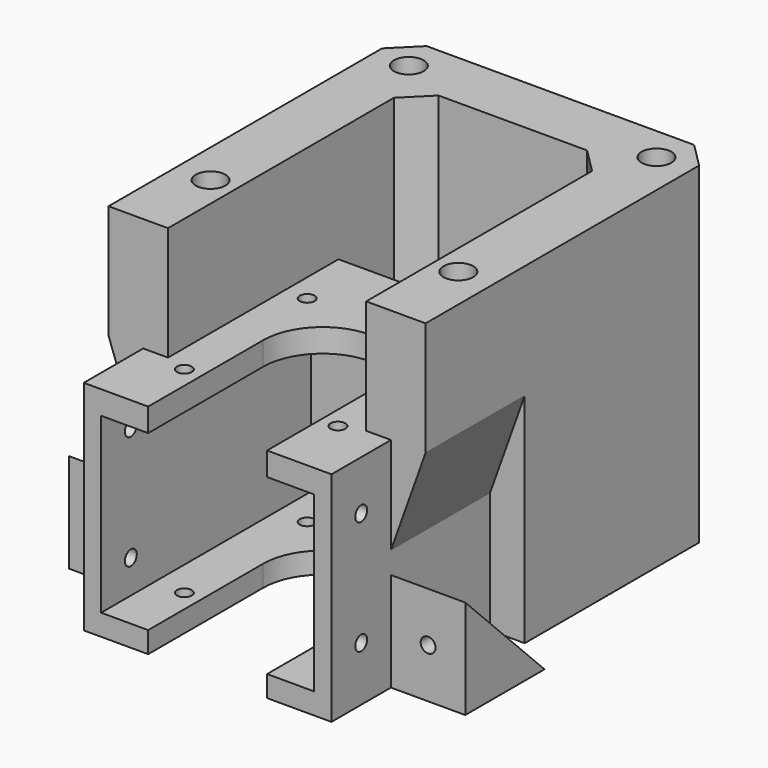
from build123d import *

# Parameters (mm, degrees)
PAD004_DEPTH       = 23
PAD005_DEPTH       = 44
SKETCH007_W        = 43
SKETCH007_H        = 35
POCKET001_DEPTH    = 53
PAD006_DEPTH       = 25
SKETCH009_R        = 1.5
POCKET002_DEPTH    = 44.001
SKETCH012_R        = 3
POCKET004_DEPTH    = 10
POLARPATTERN_COUNT = 4
CHAMFER_SIZE       = 5
POCKET_DEPTH       = 5
PAD_DEPTH          = 44
SKETCH014_R        = 1.5
POCKET005_DEPTH    = 57.001
PAD007_DEPTH       = 15
SKETCH016_R        = 1.5
POCKET006_DEPTH    = 20
SKETCH017_R        = 1.5
POCKET007_DEPTH    = 20
SKETCH018_W        = 9
SKETCH018_H        = 10
POCKET008_DEPTH    = 15
POCKET009_DEPTH    = 15
SKETCH020_R        = 1.5
POCKET010_DEPTH    = 5


with BuildPart() as part:
    # Sketch005 → Pad004 (new body)
    with BuildSketch(Plane.XY):
        Polygon((32, -42), (32, 32), (-32, 32), (-32, -42), (-20, -42), (-20, 20), (20, 20), (20, -42), align=None)
    extrude(amount=-PAD004_DEPTH)

    # Sketch006 (on Face10 of Pad004) → Pad005 (join)
    with BuildSketch(Plane(origin=(0, 0, -23), x_dir=(1, 0, 0), z_dir=(0, 0, -1))):
        with BuildLine():
            Line((-25, 57), (-25, -1))
            Line((-25, -1), (25, -1))
            Line((25, -1), (25, 57))
            Line((25, 57), (12, 57))
            Line((12, 28.000302), (12, 57))
            ThreePointArc((-12, 27.999702), (0.0003, 16), (12, 28.000302))
            Line((-12, 27.999702), (-12, 57))
            Line((-12, 57), (-25, 57))
        make_face()
    extrude(amount=PAD005_DEPTH)

    # Sketch007 (on Face16 of Pad005) → Pocket001 (cut)
    with BuildSketch(Plane.XZ.offset(57)):
        with Locations((0, -45.217157)):
            Rectangle(SKETCH007_W, SKETCH007_H)
    extrude(amount=-POCKET001_DEPTH, mode=Mode.SUBTRACT)

    # Sketch008 (on Face9 of Pocket001) → Pad006 (join)
    with BuildSketch(Plane.XZ.offset(42)):
        Polygon((-32, -23), (-25, -23), (-25, -42.561909), align=None)
        Polygon((32, -23), (25, -23), (25, -42.561909), align=None)
    extrude(amount=-PAD006_DEPTH)

    # Sketch009 (on Face7 of Pad006) → Pocket002 (cut, through all)
    with BuildSketch(Plane.XY.offset(-23)):
        with Locations((-15.5, -12.5)):
            Circle(SKETCH009_R)
        with Locations((-15.5, -43.5)):
            Circle(SKETCH009_R)
        with Locations((15.5, -43.5)):
            Circle(SKETCH009_R)
        with Locations((15.5, -12.5)):
            Circle(SKETCH009_R)
    extrude(amount=-POCKET002_DEPTH, mode=Mode.SUBTRACT)

    # Sketch012 (on Face4 of Pocket002) → Pocket004 (cut)
    with BuildSketch(Plane.XY):
        with Locations((-25, 25)):
            Circle(SKETCH012_R)
    pocket004 = extrude(amount=-POCKET004_DEPTH, mode=Mode.SUBTRACT)

    # PolarPattern: Pocket004 ×4 about axis
    polarpattern_axis = Axis((0, 0, 0), (0, 0, 1))
    for i in range(1, POLARPATTERN_COUNT):
        add(pocket004.rotate(polarpattern_axis, i * 360 / POLARPATTERN_COUNT), mode=Mode.SUBTRACT)

    # Chamfer
    chamfer_edges = [part.edges().sort_by_distance(p)[0] for p in [
        (-32, 32, -11.5),
        (32, 32, -11.5),
        (-25, 1, -45),
        (25, 1, -45),
        (20, 20, -11.5),
        (-20, 20, -11.5),
    ]]
    chamfer(chamfer_edges, length=CHAMFER_SIZE)

    # Sketch013 (on Face37 of Chamfer) → Pocket (cut)
    with BuildSketch(Plane(origin=(0, 1, 0), x_dir=(-1, 0, 0), z_dir=(0, 1, 0))):
        with BuildLine():
            Line((-12, -62.717157), (12, -62.717157))
            Line((12, -62.717157), (12, -49.356773))
            ThreePointArc((12, -49.356773), (0, -37.356773), (-12, -49.356773))
            Line((-12, -49.356773), (-12, -62.717157))
        make_face()
    extrude(amount=-POCKET_DEPTH, mode=Mode.SUBTRACT)

    # Sketch (on Face5 of Pocket) → Pad (join)
    with BuildSketch(Plane(origin=(0, 0, -23), x_dir=(1, 0, 0), z_dir=(0, 0, -1))):
        Polygon((-32, 17), (-25, 17), (-25, 7), (-20, 2), (-20, -15), (-15, -20), (15, -20), (20, -15), (20, 2), (25, 7), (25, 17), (32, 17), (32, -27), (27, -32), (-27, -32), (-32, -27), align=None)
    extrude(amount=PAD_DEPTH)

    # Sketch014 (on Face13 of Pad) → Pocket005 (cut, through all)
    with BuildSketch(Plane(origin=(-25, 0, 0), x_dir=(0, -1, 0), z_dir=(-1, 0, 0))):
        with Locations((49.5, -33)):
            Circle(SKETCH014_R)
        with Locations((49.5, -56)):
            Circle(SKETCH014_R)
    extrude(amount=-POCKET005_DEPTH, mode=Mode.SUBTRACT)

    # Sketch015 (on Face26 of Pocket005) → Pad007 (join)
    with BuildSketch(Plane(origin=(-25, 0, 0), x_dir=(0, -1, 0), z_dir=(-1, 0, 0))):
        Polygon((22, -67), (42, -67), (42, -47), align=None)
    pad007 = extrude(amount=PAD007_DEPTH)

    # Sketch016 (on Face53 of Pad007) → Pocket006 (cut)
    with BuildSketch(Plane.XZ.offset(42)):
        with Locations((-32.5, -57)):
            Circle(SKETCH016_R)
    pocket006 = extrude(amount=-POCKET006_DEPTH, mode=Mode.SUBTRACT)

    # Sketch017 (on Face20 of Pocket006) → Pocket007 (cut)
    with BuildSketch(Plane(origin=(0, 0, -67), x_dir=(1, 0, 0), z_dir=(0, 0, -1))):
        with Locations((-32.5, 32)):
            Circle(SKETCH017_R)
    pocket007 = extrude(amount=-POCKET007_DEPTH, mode=Mode.SUBTRACT)

    # Sketch018 (on Face20 of Pocket007) → Pocket008 (cut)
    with BuildSketch(Plane(origin=(0, 0, -62), x_dir=(1, 0, 0), z_dir=(0, 0, -1))):
        with Locations((-32.5, 32)):
            Rectangle(SKETCH018_W, SKETCH018_H)
    pocket008 = extrude(amount=-POCKET008_DEPTH, mode=Mode.SUBTRACT)

    # Mirrored: Pad007, Pocket006, Pocket007, Pocket008 across YZ
    add(pad007.mirror(Plane.YZ))
    add(pocket006.mirror(Plane.YZ), mode=Mode.SUBTRACT)
    add(pocket007.mirror(Plane.YZ), mode=Mode.SUBTRACT)
    add(pocket008.mirror(Plane.YZ), mode=Mode.SUBTRACT)

    # Sketch019 (on Face5 of Mirrored) → Pocket009 (cut)
    with BuildSketch(Plane(origin=(0, 32, 0), x_dir=(-1, 0, 0), z_dir=(0, 1, 0))):
        with BuildLine():
            Line((-8, -63), (8, -63))
            Line((8, -63), (8, -50.411114))
            ThreePointArc((8, -50.411114), (0, -42.484996), (-8, -50.411114))
            Line((-8, -50.411114), (-8, -63))
        make_face()
    extrude(amount=-POCKET009_DEPTH, mode=Mode.SUBTRACT)

    # Sketch020 (on Face23 of Pocket009) → Pocket010 (cut)
    with BuildSketch(Plane.XY.offset(-63)):
        with Locations((0, 27.5)):
            Circle(SKETCH020_R)
    extrude(amount=-POCKET010_DEPTH, mode=Mode.SUBTRACT)


solid = part.part
